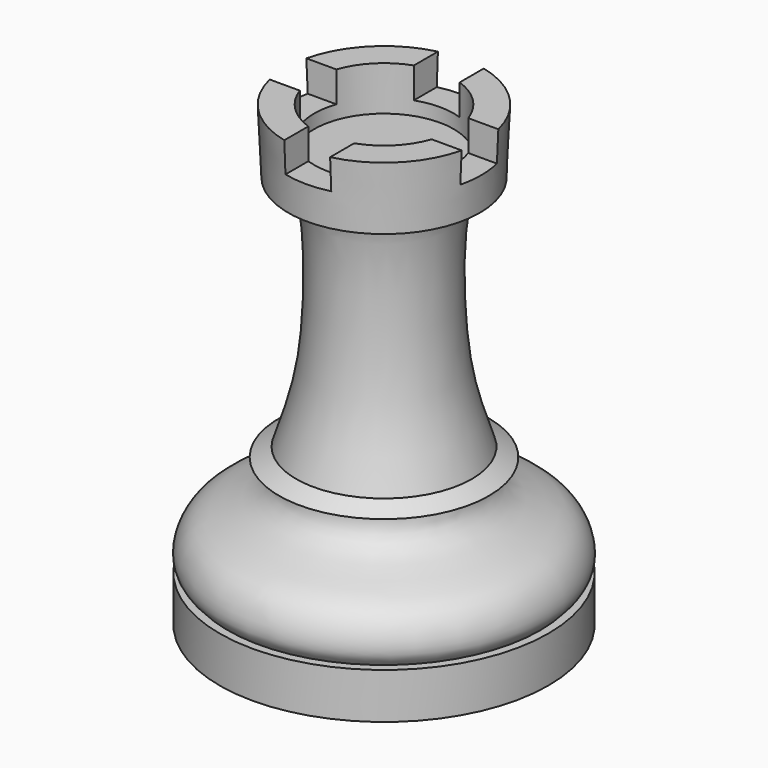
from build123d import *

# Parameters (mm, degrees)
F2_W     = 2.54
F2_H     = 2.54
F3_DEPTH = 1.7018
F4_R     = 3.8696767193
F5_DEPTH = 25.4
F6_DEPTH = 0.762


with BuildPart() as f1:
    # F0 (on Front) → F1 (revolve)
    with BuildSketch(Plane.XZ):
        Polygon((0, 2.54), (0, 0), (9.1186, 0), (9.1186, 2.54), (8.6556235328, 2.54), align=None)
        with BuildLine():
            Line((0, 8.6968354881), (0, 2.54))
            Line((0, 2.54), (8.6556235328, 2.54))
            add(Edge.make_bspline(
                [(8.6556235328, 2.54), (8.8550384762, 2.7402463297), (9.3618805952, 3.2434009078), (8.6917500556, 5.5027157982), (5.7913825103, 5.9282046951), (4.8176161945, 7.0821708068), (4.8696040176, 7.7928476967)],
                knots=[0, 0, 0, 0, 0.1745078988, 0.4312211664, 0.7434636272, 1, 1, 1, 1], degree=3))
            Line((4.8696040176, 7.7928476967), (5.8183851652, 8.18317011))
            Line((5.8183851652, 8.18317011), (4.8696040176, 8.6968354881))
            Line((4.8696040176, 8.6968354881), (0, 8.6968354881))
        make_face()
        with BuildLine():
            Line((0, 25.4), (0, 8.6968354881))
            Line((0, 8.6968354881), (4.8696040176, 8.6968354881))
            add(Edge.make_bspline(
                [(4.8696040176, 8.6968354881), (4.4544059351, 9.9683403285), (3.4997394922, 12.6262885828), (3.3990850213, 19.3145075221), (3.8213017941, 21.1251515454), (3.9858142845, 21.8313997611)],
                knots=[0, 0, 0, 0, 0.3320269683, 0.74449656, 1, 1, 1, 1], degree=3))
            Line((3.9858142845, 21.8313997611), (4.8696040176, 21.8313997611))
            Line((4.8696040176, 21.8313997611), (5.3105507867, 21.8313997611))
            Line((5.3105507867, 21.8313997611), (5.4714544566, 25.4))
            Line((5.4714544566, 25.4), (0, 25.4))
        make_face()
    revolve(axis=Axis((0, 0, 12.7), (0, 0, 1)))

    # F2 (on face) → F3 (cut)
    with BuildSketch(Plane.XY.offset(25.4)):
        with BuildLine():
            Line((-1.27, -1.27), (-1.27, 1.27))
            Line((-1.27, 1.27), (-5.3220215962, 1.27))
            ThreePointArc((-5.3220215962, 1.27), (-5.4714544566, 0), (-5.3220215962, -1.27))
            Line((-5.3220215962, -1.27), (-1.27, -1.27))
        make_face()
        with BuildLine():
            Line((5.3220215962, 1.27), (1.27, 1.27))
            Line((1.27, 1.27), (1.27, -1.27))
            Line((1.27, -1.27), (5.3220215962, -1.27))
            ThreePointArc((5.3220215962, -1.27), (5.4339678252, -0.6393805947), (5.4714544566, 0))
            ThreePointArc((5.4714544566, 0), (5.4339678252, 0.6393805947), (5.3220215962, 1.27))
        make_face()
        with BuildLine():
            Line((1.27, -5.3220215962), (1.27, -1.27))
            Line((1.27, -1.27), (-1.27, -1.27))
            Line((-1.27, -1.27), (-1.27, -5.3220215962))
            ThreePointArc((-1.27, -5.3220215962), (0, -5.4714544566), (1.27, -5.3220215962))
        make_face()
        with BuildLine():
            Line((-1.27, 1.27), (1.27, 1.27))
            Line((1.27, 1.27), (1.27, 5.3220215962))
            ThreePointArc((1.27, 5.3220215962), (0, 5.4714544566), (-1.27, 5.3220215962))
            Line((-1.27, 5.3220215962), (-1.27, 1.27))
        make_face()
        Rectangle(F2_W, F2_H)
    extrude(amount=-F3_DEPTH, mode=Mode.SUBTRACT)

    # F4 (on face) → F5 (cut)
    with BuildSketch(Plane.XY.offset(23.6982)):
        Circle(F4_R)
    extrude(amount=F5_DEPTH, mode=Mode.SUBTRACT)

    # F4 (on face) → F6 (cut)
    with BuildSketch(Plane.XY.offset(23.6982)):
        Circle(F4_R)
    extrude(amount=-F6_DEPTH, mode=Mode.SUBTRACT)


solid = f1.part
